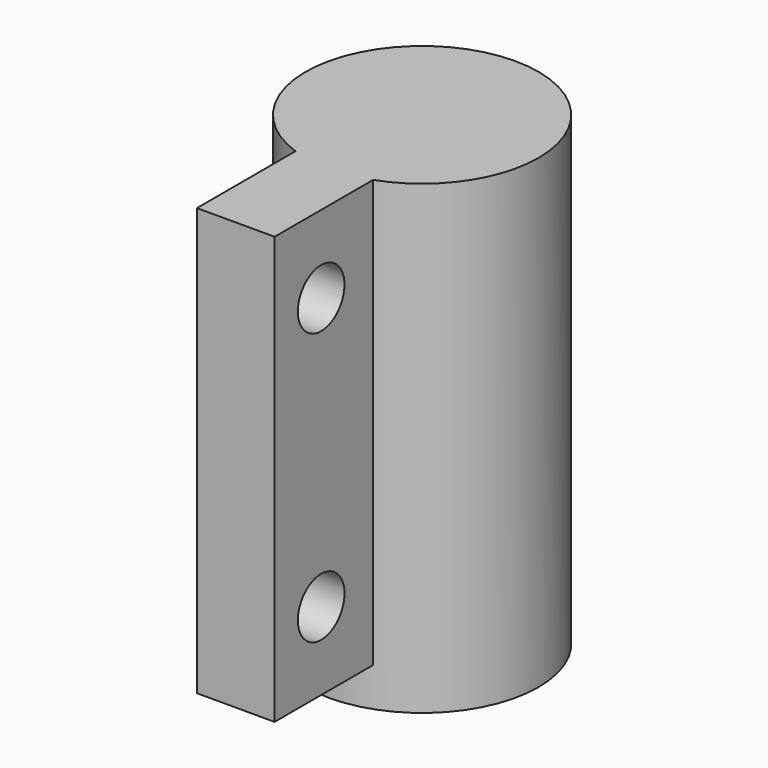
from build123d import *

# Parameters (mm, degrees)
F0_R     = 19.05
F1_DEPTH = 76.2
F2_W     = 12.7
F2_H     = 69.85
F3_DEPTH = 38.1
F4_R     = 4.7625
F5_DEPTH = 12.7


with BuildPart() as f1:
    # F0 (on Top) → F1 (new body)
    with BuildSketch(Plane.XY):
        Circle(F0_R)
    extrude(amount=F1_DEPTH)

    # F2 (on Front) → F3 (join)
    with BuildSketch(Plane.XZ):
        with Locations((0, 41.275)):
            Rectangle(F2_W, F2_H)
    extrude(amount=F3_DEPTH)

    # F4 (on Right) → F5 (cut, symmetric)
    with BuildSketch(Plane.YZ):
        with Locations((-28.575, 63.5)):
            Circle(F4_R)
        with Locations((-28.575, 19.05)):
            Circle(F4_R)
    extrude(amount=F5_DEPTH, both=True, mode=Mode.SUBTRACT)


solid = f1.part
